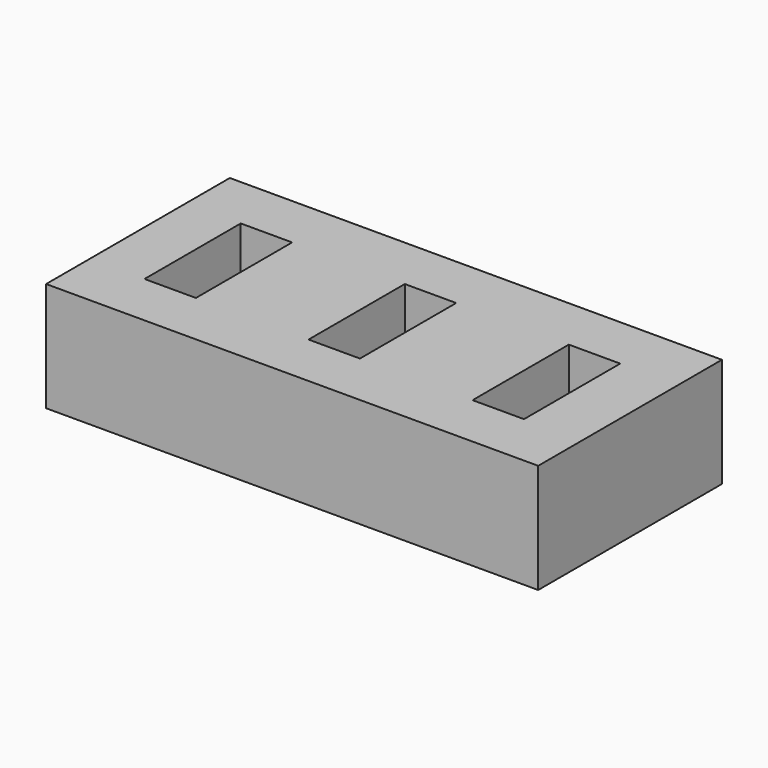
from build123d import *

# Parameters (mm, degrees)
BOX001_W     = 4.7
BOX001_H     = 11
BOX001_DEPTH = 12
BOX002_W     = 4.7
BOX002_H     = 11
BOX002_DEPTH = 12
BOX_W        = 4.7
BOX_H        = 11
BOX_DEPTH    = 12
BOX003_W     = 45
BOX003_H     = 21
BOX003_DEPTH = 10


with BuildPart() as ranura002:
    # Box001 → Box001 (new body)
    with BuildSketch(Plane(origin=(20, 5, 0), x_dir=(1, 0, 0), z_dir=(0, 0, 1))):
        with Locations((2.35, 5.5)):
            Rectangle(BOX001_W, BOX001_H)
    extrude(amount=BOX001_DEPTH)


with BuildPart() as ranura003:
    # Box002 → Box002 (new body)
    with BuildSketch(Plane(origin=(35, 5, 0), x_dir=(1, 0, 0), z_dir=(0, 0, 1))):
        with Locations((2.35, 5.5)):
            Rectangle(BOX002_W, BOX002_H)
    extrude(amount=BOX002_DEPTH)


with BuildPart() as obj1:
    # Box → Box (new body)
    with BuildSketch(Plane(origin=(5, 5, 0), x_dir=(1, 0, 0), z_dir=(0, 0, 1))):
        with Locations((2.35, 5.5)):
            Rectangle(BOX_W, BOX_H)
    extrude(amount=BOX_DEPTH)

    # Fusion: union ranura002, ranura003
    add(ranura002.part)
    add(ranura003.part)


with BuildPart() as obj1_1:
    # Fusion placement: moved
    add(obj1.part.moved(Location((0, 0, 3))))


with BuildPart() as porta_pendrives:
    # Box003 → Box003 (new body)
    with BuildSketch(Plane.XY):
        with Locations((22.5, 10.5)):
            Rectangle(BOX003_W, BOX003_H)
    extrude(amount=BOX003_DEPTH)

    # Cut: cut obj1
    add(obj1_1.part, mode=Mode.SUBTRACT)


solid = porta_pendrives.part
